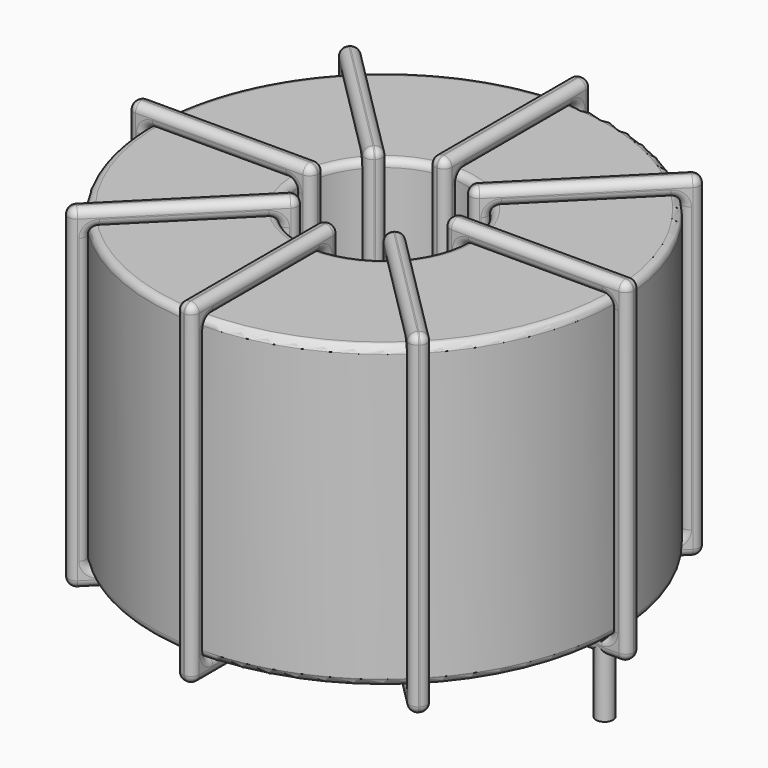
from build123d import *

# Parameters (mm, degrees)
SKETCH001_R       = 0.6
PAD001_DEPTH      = 0.6
PAD001_DEPTH_BACK = 4.7
SKETCH_R          = 16.35
SKETCH_R_2        = 5.85
PAD_DEPTH         = 21.1
FILLET_R          = 0.5
SKETCH003_W       = 12.9
SKETCH003_H       = 23.5
SKETCH003_W_2     = 10.5
SKETCH003_H_2     = 21.1
PAD002_DEPTH      = 0.6
FILLET001_R       = 0.564
SKETCH004_W       = 12.9
SKETCH004_H       = 23.5
SKETCH004_W_2     = 10.5
SKETCH004_H_2     = 21.1
PAD003_DEPTH      = 0.6
FILLET002_R       = 0.564
SKETCH005_W       = 12.9
SKETCH005_H       = 23.5
SKETCH005_W_2     = 10.5
SKETCH005_H_2     = 21.1
PAD004_DEPTH      = 0.6
FILLET003_R       = 0.564
SKETCH006_W       = 12.9
SKETCH006_H       = 23.5
SKETCH006_W_2     = 10.5
SKETCH006_H_2     = 21.1
PAD005_DEPTH      = 0.6
FILLET004_R       = 0.564


with BuildPart() as pad001:
    # Sketch001 → Pad001 (new body, two sides)
    with BuildSketch(Plane.XY.offset(1.1)) as pad001_sk:
        Circle(SKETCH001_R)
        with Locations((31, 0)):
            Circle(SKETCH001_R)
    extrude(amount=PAD001_DEPTH)
    extrude(pad001_sk.sketch, amount=-PAD001_DEPTH_BACK)


with BuildPart() as fillet_body:
    # Sketch → Pad (new body)
    with BuildSketch(Plane.XY.offset(1.7)):
        with Locations((15.5, 0)):
            Circle(SKETCH_R)
        with Locations((15.5, 0)):
            Circle(SKETCH_R_2, mode=Mode.SUBTRACT)
    extrude(amount=PAD_DEPTH)

    # Fillet
    fillet_edges = [fillet_body.edges().sort_by_distance(p)[0] for p in [
        (9.65, 0, 22.8),
        (-0.85, 0, 22.8),
        (-0.85, 0, 1.7),
    ]]
    fillet(fillet_edges, radius=FILLET_R)


with BuildPart() as fillet001:
    # Sketch003 → Pad002 (new body, symmetric)
    with BuildSketch(Plane(origin=(15.5, 0, 0), x_dir=(1, 0, 0), z_dir=(0, -1, 0))):
        with Locations((-11.1, 12.25)):
            Rectangle(SKETCH003_W, SKETCH003_H)
        with Locations((-11.1, 12.25)):
            Rectangle(SKETCH003_W_2, SKETCH003_H_2, mode=Mode.SUBTRACT)
        with Locations((11.1, 12.25)):
            Rectangle(SKETCH003_W, SKETCH003_H)
        with Locations((11.1, 12.25)):
            Rectangle(SKETCH003_W_2, SKETCH003_H_2, mode=Mode.SUBTRACT)
    extrude(amount=PAD002_DEPTH, both=True)

    # Fillet001
    fillet001_edges = [fillet001.edges().sort_by_distance(p)[0] for p in [
        (31.85, 0, 22.8),
        (31.85, 0, 1.7),
        (31.85, 0.6, 12.25),
        (31.85, -0.6, 12.25),
        (33.05, 0, 0.5),
        (20.15, 0, 0.5),
        (26.6, 0.6, 0.5),
        (26.6, -0.6, 0.5),
        (20.15, 0, 24),
        (20.15, 0.6, 12.25),
        (20.15, -0.6, 12.25),
        (-0.85, 0, 22.8),
        (9.65, 0, 22.8),
        (4.4, 0.6, 22.8),
        (4.4, -0.6, 22.8),
        (9.65, 0, 1.7),
        (9.65, 0.6, 12.25),
        (9.65, -0.6, 12.25),
        (10.85, 0, 0.5),
        (-2.05, 0, 0.5),
        (4.4, 0.6, 0.5),
        (4.4, -0.6, 0.5),
        (-2.05, 0, 24),
        (-2.05, 0.6, 12.25),
        (-2.05, -0.6, 12.25),
        (21.35, 0, 22.8),
        (26.6, 0.6, 22.8),
        (26.6, -0.6, 22.8),
        (-0.85, 0, 1.7),
        (-0.85, 0.6, 12.25),
        (-0.85, -0.6, 12.25),
        (4.4, 0.6, 1.7),
        (4.4, -0.6, 1.7),
        (10.85, 0, 24),
        (4.4, 0.6, 24),
        (4.4, -0.6, 24),
        (10.85, 0.6, 12.25),
        (10.85, -0.6, 12.25),
        (33.05, 0, 24),
        (26.6, 0.6, 24),
        (26.6, -0.6, 24),
        (33.05, 0.6, 12.25),
        (33.05, -0.6, 12.25),
        (21.35, 0, 1.7),
        (21.35, 0.6, 12.25),
        (21.35, -0.6, 12.25),
        (26.6, 0.6, 1.7),
        (26.6, -0.6, 1.7),
    ]]
    fillet(fillet001_edges, radius=FILLET001_R)


with BuildPart() as fillet002:
    # Sketch004 → Pad003 (new body, symmetric)
    with BuildSketch(Plane(origin=(15.5, 0, 0), x_dir=(0.707107, 0.707107, 0), z_dir=(0.707107, -0.707107, 0))):
        with Locations((-11.1, 12.25)):
            Rectangle(SKETCH004_W, SKETCH004_H)
        with Locations((-11.1, 12.25)):
            Rectangle(SKETCH004_W_2, SKETCH004_H_2, mode=Mode.SUBTRACT)
        with Locations((11.1, 12.25)):
            Rectangle(SKETCH004_W, SKETCH004_H)
        with Locations((11.1, 12.25)):
            Rectangle(SKETCH004_W_2, SKETCH004_H_2, mode=Mode.SUBTRACT)
    extrude(amount=PAD003_DEPTH, both=True)

    # Fillet002
    fillet002_edges = [fillet002.edges().sort_by_distance(p)[0] for p in [
        (11.363425, -4.136575, 22.8),
        (11.363425, -4.136575, 1.7),
        (10.939161, -3.712311, 12.25),
        (11.787689, -4.560839, 12.25),
        (3.090276, -12.409724, 24),
        (12.211953, -3.288047, 24),
        (7.226851, -7.424621, 24),
        (8.075379, -8.273149, 24),
        (12.211953, -3.288047, 0.5),
        (11.787689, -2.863782, 12.25),
        (12.636218, -3.712311, 12.25),
        (19.636575, 4.136575, 22.8),
        (27.061196, 11.561196, 22.8),
        (22.924621, 8.273149, 22.8),
        (23.773149, 7.424621, 22.8),
        (27.061196, 11.561196, 1.7),
        (26.636932, 11.98546, 12.25),
        (27.48546, 11.136932, 12.25),
        (18.788047, 3.288047, 24),
        (27.909724, 12.409724, 24),
        (22.924621, 8.273149, 24),
        (23.773149, 7.424621, 24),
        (27.909724, 12.409724, 0.5),
        (27.48546, 12.833988, 12.25),
        (28.333988, 11.98546, 12.25),
        (3.938804, -11.561196, 22.8),
        (7.226851, -7.424621, 22.8),
        (8.075379, -8.273149, 22.8),
        (19.636575, 4.136575, 1.7),
        (19.212311, 4.560839, 12.25),
        (20.060839, 3.712311, 12.25),
        (22.924621, 8.273149, 1.7),
        (23.773149, 7.424621, 1.7),
        (18.788047, 3.288047, 0.5),
        (22.924621, 8.273149, 0.5),
        (23.773149, 7.424621, 0.5),
        (18.363782, 3.712311, 12.25),
        (19.212311, 2.863782, 12.25),
        (3.090276, -12.409724, 0.5),
        (7.226851, -7.424621, 0.5),
        (8.075379, -8.273149, 0.5),
        (2.666012, -11.98546, 12.25),
        (3.51454, -12.833988, 12.25),
        (3.938804, -11.561196, 1.7),
        (3.51454, -11.136932, 12.25),
        (4.363068, -11.98546, 12.25),
        (7.226851, -7.424621, 1.7),
        (8.075379, -8.273149, 1.7),
    ]]
    fillet(fillet002_edges, radius=FILLET002_R)


with BuildPart() as fillet003:
    # Sketch005 → Pad004 (new body, symmetric)
    with BuildSketch(Plane(origin=(15.5, 0, 0), x_dir=(0.707107, -0.707107, 0), z_dir=(-0.707107, -0.707107, 0))):
        with Locations((-11.1, 12.25)):
            Rectangle(SKETCH005_W, SKETCH005_H)
        with Locations((-11.1, 12.25)):
            Rectangle(SKETCH005_W_2, SKETCH005_H_2, mode=Mode.SUBTRACT)
        with Locations((11.1, 12.25)):
            Rectangle(SKETCH005_W, SKETCH005_H)
        with Locations((11.1, 12.25)):
            Rectangle(SKETCH005_W_2, SKETCH005_H_2, mode=Mode.SUBTRACT)
    extrude(amount=PAD004_DEPTH, both=True)

    # Fillet003
    fillet003_edges = [fillet003.edges().sort_by_distance(p)[0] for p in [
        (3.938804, 11.561196, 22.8),
        (11.363425, 4.136575, 1.7),
        (8.075379, 8.273149, 1.7),
        (7.226851, 7.424621, 1.7),
        (3.090276, 12.409724, 24),
        (3.090276, 12.409724, 0.5),
        (3.51454, 12.833988, 12.25),
        (2.666012, 11.98546, 12.25),
        (12.211953, 3.288047, 24),
        (8.075379, 8.273149, 0.5),
        (7.226851, 7.424621, 0.5),
        (19.636575, -4.136575, 22.8),
        (27.061196, -11.561196, 22.8),
        (23.773149, -7.424621, 22.8),
        (22.924621, -8.273149, 22.8),
        (27.061196, -11.561196, 1.7),
        (27.48546, -11.136932, 12.25),
        (26.636932, -11.98546, 12.25),
        (18.788047, -3.288047, 24),
        (27.909724, -12.409724, 24),
        (23.773149, -7.424621, 24),
        (22.924621, -8.273149, 24),
        (27.909724, -12.409724, 0.5),
        (28.333988, -11.98546, 12.25),
        (27.48546, -12.833988, 12.25),
        (3.938804, 11.561196, 1.7),
        (4.363068, 11.98546, 12.25),
        (3.51454, 11.136932, 12.25),
        (19.636575, -4.136575, 1.7),
        (20.060839, -3.712311, 12.25),
        (19.212311, -4.560839, 12.25),
        (23.773149, -7.424621, 1.7),
        (22.924621, -8.273149, 1.7),
        (18.788047, -3.288047, 0.5),
        (23.773149, -7.424621, 0.5),
        (22.924621, -8.273149, 0.5),
        (19.212311, -2.863782, 12.25),
        (18.363782, -3.712311, 12.25),
        (12.211953, 3.288047, 0.5),
        (12.636218, 3.712311, 12.25),
        (11.787689, 2.863782, 12.25),
        (8.075379, 8.273149, 24),
        (7.226851, 7.424621, 24),
        (11.363425, 4.136575, 22.8),
        (8.075379, 8.273149, 22.8),
        (7.226851, 7.424621, 22.8),
        (11.787689, 4.560839, 12.25),
        (10.939161, 3.712311, 12.25),
    ]]
    fillet(fillet003_edges, radius=FILLET003_R)


with BuildPart() as fillet004:
    # Sketch006 → Pad005 (new body, symmetric)
    with BuildSketch(Plane.YZ.offset(15.5)):
        with Locations((-11.1, 12.25)):
            Rectangle(SKETCH006_W, SKETCH006_H)
        with Locations((-11.1, 12.25)):
            Rectangle(SKETCH006_W_2, SKETCH006_H_2, mode=Mode.SUBTRACT)
        with Locations((11.1, 12.25)):
            Rectangle(SKETCH006_W, SKETCH006_H)
        with Locations((11.1, 12.25)):
            Rectangle(SKETCH006_W_2, SKETCH006_H_2, mode=Mode.SUBTRACT)
    extrude(amount=PAD005_DEPTH, both=True)

    # Fillet004
    fillet004_edges = [fillet004.edges().sort_by_distance(p)[0] for p in [
        (15.5, -5.85, 22.8),
        (15.5, -5.85, 1.7),
        (14.9, -5.85, 12.25),
        (16.1, -5.85, 12.25),
        (15.5, -17.55, 24),
        (15.5, -4.65, 24),
        (14.9, -11.1, 24),
        (16.1, -11.1, 24),
        (15.5, -4.65, 0.5),
        (14.9, -4.65, 12.25),
        (16.1, -4.65, 12.25),
        (15.5, 5.85, 22.8),
        (15.5, 16.35, 22.8),
        (14.9, 11.1, 22.8),
        (16.1, 11.1, 22.8),
        (15.5, 16.35, 1.7),
        (14.9, 16.35, 12.25),
        (16.1, 16.35, 12.25),
        (15.5, 4.65, 24),
        (15.5, 17.55, 24),
        (14.9, 11.1, 24),
        (16.1, 11.1, 24),
        (15.5, 17.55, 0.5),
        (14.9, 17.55, 12.25),
        (16.1, 17.55, 12.25),
        (15.5, -16.35, 22.8),
        (14.9, -11.1, 22.8),
        (16.1, -11.1, 22.8),
        (15.5, 5.85, 1.7),
        (14.9, 5.85, 12.25),
        (16.1, 5.85, 12.25),
        (14.9, 11.1, 1.7),
        (16.1, 11.1, 1.7),
        (15.5, 4.65, 0.5),
        (14.9, 11.1, 0.5),
        (16.1, 11.1, 0.5),
        (14.9, 4.65, 12.25),
        (16.1, 4.65, 12.25),
        (15.5, -17.55, 0.5),
        (14.9, -11.1, 0.5),
        (16.1, -11.1, 0.5),
        (14.9, -17.55, 12.25),
        (16.1, -17.55, 12.25),
        (15.5, -16.35, 1.7),
        (14.9, -16.35, 12.25),
        (16.1, -16.35, 12.25),
        (14.9, -11.1, 1.7),
        (16.1, -11.1, 1.7),
    ]]
    fillet(fillet004_edges, radius=FILLET004_R)


solid = Compound([pad001.part, fillet_body.part, fillet001.part, fillet002.part, fillet003.part, fillet004.part])
